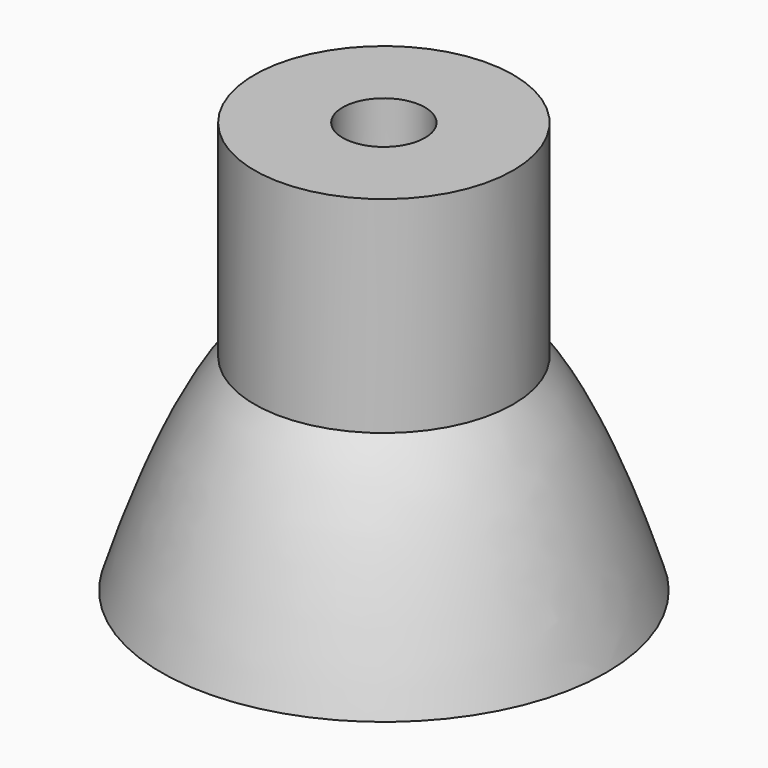
from build123d import *


with BuildPart() as f1:
    # F0 (on Front) → F1 (revolve)
    with BuildSketch(Plane.XZ):
        with BuildLine():
            add(Edge.make_bspline(
                [(11, 2.5), (14.0556900188, -1.2942891031), (16.7506798401, -8.110861107), (18.9052545744, -15)],
                knots=[0, 0, 0, 0, 0.3619010088, 0.3619010088, 0.3619010088, 0.3619010088], degree=3))
            Line((11, 2.5), (11, -15))
            Line((11, -15), (18.9052545744, -15))
        make_face()
        Polygon((11, 20), (3.5, 20), (3.5, 10), (6, 10), (6, -15), (11, -15), (11, 2.5), align=None)
    revolve(axis=Axis((0, 0, 3.6827032454), (0, 0, 1)))


solid = f1.part
